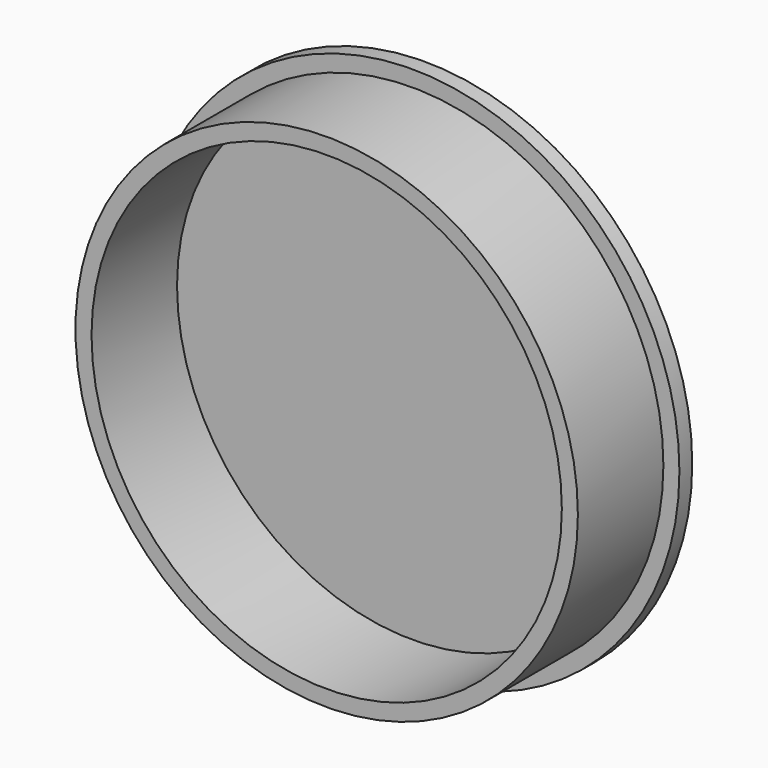
from build123d import *

# Parameters (mm, degrees)
F0_R     = 50
F1_DEPTH = 3
F2_R     = 47
F2_R_2   = 44
F3_DEPTH = 20


with BuildPart() as f1:
    # F0 (on Front) → F1 (new body)
    with BuildSketch(Plane.XZ):
        Circle(F0_R)
    extrude(amount=F1_DEPTH)

    # F2 (on face) → F3 (join)
    with BuildSketch(Plane.XZ.offset(3)):
        Circle(F2_R)
        Circle(F2_R_2, mode=Mode.SUBTRACT)
    extrude(amount=F3_DEPTH)


solid = f1.part
